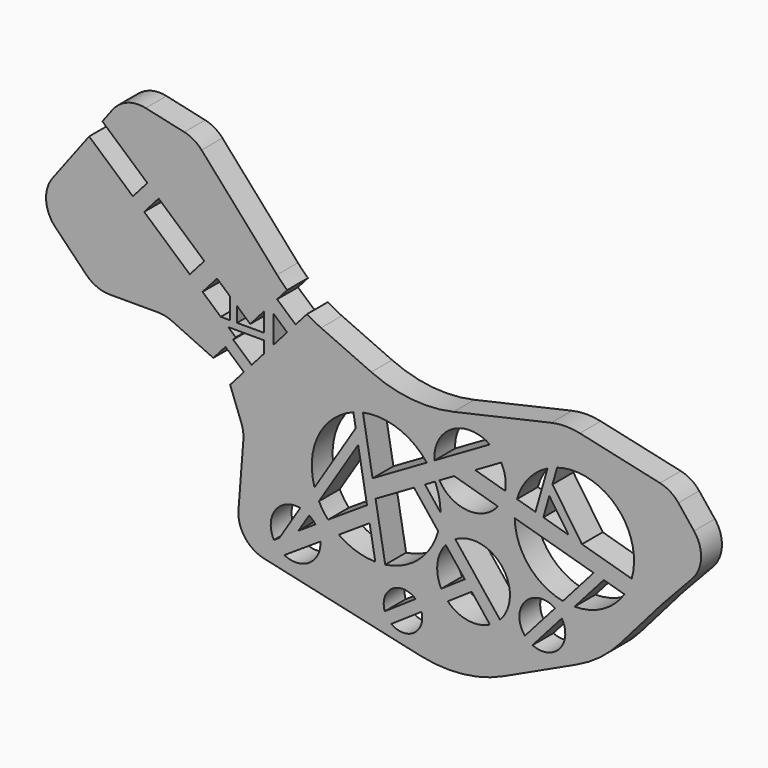
from build123d import *

# Parameters (mm, degrees)
F1_DEPTH = 5.08


with BuildPart() as f1:
    # F0 (on Front) → F1 (new body)
    with BuildSketch(Plane.XZ):
        with BuildLine():
            Line((-40.275556, 44.046157), (-47.404758, 34.581525))
            ThreePointArc((-47.404758, 34.581525), (-48.669842, 30.357517), (-46.879273, 26.328058))
            Line((-46.879273, 26.328058), (-40.821373, 20.114827))
            ThreePointArc((-40.821373, 20.114827), (-38.741891, 18.696625), (-36.274772, 18.197764))
            Line((-36.274772, 18.197764), (-26.811405, 18.197764))
            ThreePointArc((-26.811405, 18.197764), (-25.449181, 18.049928), (-24.150386, 17.613306))
            Line((-24.150386, 17.613306), (-16.054588, 13.876783))
            Line((-16.054588, 13.876783), (-13.685921, 16.563832))
            Line((-13.685921, 16.563832), (-10.083565, 13.38831))
            Line((-10.083565, 13.38831), (-12.769917, 10.340875))
            Line((-12.769917, 10.340875), (-10.570144, 4.47481))
            ThreePointArc((-10.570144, 4.47481), (-10.228729, 3.136696), (-10.184672, 1.756416))
            Line((-10.184672, 1.756416), (-11.142575, -10.651773))
            ThreePointArc((-11.142575, -10.651773), (-9.914032, -14.920187), (-6.188922, -17.339322))
            Line((-6.188922, -17.339322), (3.625042, -19.520204))
            Line((3.625042, -19.520204), (24.356571, -24.127213))
            ThreePointArc((24.356571, -24.127213), (32.617279, -24.582682), (40.58616, -22.359246))
            Line((40.58616, -22.359246), (54.85313, -15.717725))
            ThreePointArc((54.85313, -15.717725), (59.411476, -12.982062), (63.300546, -9.357493))
            Line((63.300546, -9.357493), (71.362269, -0.086524))
            ThreePointArc((71.362269, -0.086524), (71.438277, -0.000693), (71.515821, 0.083752))
            Line((71.515821, 0.083752), (77.39452, 6.370687))
            ThreePointArc((77.39452, 6.370687), (79.101388, 10.457233), (77.721958, 14.66561))
            Line((77.721958, 14.66561), (74.67214, 18.491938))
            ThreePointArc((74.67214, 18.491938), (73.070176, 19.919962), (71.084022, 20.732817))
            Line((71.084022, 20.732817), (55.460665, 24.204676))
            ThreePointArc((55.460665, 24.204676), (52.678779, 24.507072), (49.898197, 24.192908))
            Line((49.898197, 24.192908), (30.802289, 19.864502))
            ThreePointArc((30.802289, 19.864502), (22.647473, 19.363428), (14.755452, 21.477216))
            Line((14.755452, 21.477216), (4.972792, 25.88382))
            ThreePointArc((4.972792, 25.88382), (3.570361, 26.568119), (2.212597, 27.337246))
            Line((2.212597, 27.337246), (0, 24.827245))
            Line((0, 24.827245), (-3.602356, 28.002767))
            Line((-3.602356, 28.002767), (-1.648816, 30.21889))
            ThreePointArc((-1.648816, 30.21889), (-2.65924, 31.186265), (-3.614876, 32.207799))
            Line((-3.614876, 32.207799), (-18.335917, 48.839203))
            ThreePointArc((-18.335917, 48.839203), (-19.867203, 50.101377), (-21.713309, 50.82926))
            Line((-21.713309, 50.82926), (-29.24698, 52.50341))
            ThreePointArc((-29.24698, 52.50341), (-32.821418, 52.262474), (-35.696574, 50.125153))
            Line((-35.696574, 50.125153), (-37.694322, 47.472969))
            Line((-37.694322, 47.472969), (-28.918262, 39.736762))
            Line((-28.918262, 39.736762), (-31.746839, 36.527986))
            Line((-31.746839, 36.527986), (-40.275556, 44.046157))
        make_face()
        with BuildLine():
            ThreePointArc((-4.225081, -13.529201), (-3.944831, -8.312931), (0.905035, -6.372102))
            Line((0.905035, -6.372102), (-3.15545, -12.829451))
            Line((-3.15545, -12.829451), (-4.225081, -13.529201))
        make_face(mode=Mode.SUBTRACT)
        with BuildLine():
            ThreePointArc((4.845113, -10.854332), (2.657107, -15.202162), (-2.203116, -15.465267))
            Line((-2.203116, -15.465267), (4.845113, -10.854332))
        make_face(mode=Mode.SUBTRACT)
        with BuildLine():
            ThreePointArc((2.641534, -7.068762), (3.312281, -7.592883), (3.881143, -8.226128))
            Line((3.881143, -8.226128), (0.53884, -10.412655))
            Line((0.53884, -10.412655), (2.641534, -7.068762))
        make_face(mode=Mode.SUBTRACT)
        with BuildLine():
            Line((8.424729, -8.512556), (14.443013, -4.575408))
            Line((14.443013, -4.575408), (15.546219, -10.843349))
            ThreePointArc((15.546219, -10.843349), (11.807481, -10.221791), (8.424729, -8.512556))
        make_face(mode=Mode.SUBTRACT)
        with BuildLine():
            Line((4.550004, -4.03374), (12.205012, 8.139946))
            Line((12.205012, 8.139946), (13.928658, -1.653066))
            Line((13.928658, -1.653066), (6.326088, -6.62665))
            ThreePointArc((6.326088, -6.62665), (5.356567, -5.386006), (4.550004, -4.03374))
        make_face(mode=Mode.SUBTRACT)
        with BuildLine():
            ThreePointArc((3.698579, -1.929555), (4.451633, 7.252294), (11.270996, 13.446624))
            Line((11.270996, 13.446624), (11.729453, 10.841867))
            Line((11.729453, 10.841867), (3.698579, -1.929555))
        make_face(mode=Mode.SUBTRACT)
        with BuildLine():
            ThreePointArc((24.562505, -16.508693), (23.048976, -20.625797), (18.664287, -20.500059))
            Line((18.664287, -20.500059), (24.562505, -16.508693))
        make_face(mode=Mode.SUBTRACT)
        with BuildLine():
            ThreePointArc((17.396329, -18.748226), (18.839082, -14.40465), (23.407693, -14.680293))
            Line((23.407693, -14.680293), (17.396329, -18.748226))
        make_face(mode=Mode.SUBTRACT)
        with BuildLine():
            ThreePointArc((28.408875, -11.295958), (27.6599, -7.249786), (29.281339, -3.467801))
            Line((29.281339, -3.467801), (33.01283, -8.18043))
            Line((33.01283, -8.18043), (28.408875, -11.295958))
        make_face(mode=Mode.SUBTRACT)
        with BuildLine():
            Line((29.683054, -13.043582), (34.358372, -9.879761))
            Line((34.358372, -9.879761), (37.916162, -14.373018))
            ThreePointArc((37.916162, -14.373018), (33.583819, -15.044666), (29.683054, -13.043582))
        make_face(mode=Mode.SUBTRACT)
        with BuildLine():
            ThreePointArc((44.73614, -14.067125), (44.771689, -8.173226), (50.616499, -7.413293))
            Line((50.616499, -7.413293), (44.73614, -14.067125))
        make_face(mode=Mode.SUBTRACT)
        with BuildLine():
            Line((39.879447, -12.907889), (31.157593, -1.892757))
            ThreePointArc((31.157593, -1.892757), (40.281312, -3.629113), (39.879447, -12.907889))
        make_face(mode=Mode.SUBTRACT)
        with BuildLine():
            ThreePointArc((51.917324, -8.746926), (51.486914, -14.107842), (46.21959, -15.194111))
            Line((46.21959, -15.194111), (51.917324, -8.746926))
        make_face(mode=Mode.SUBTRACT)
        with BuildLine():
            Line((17.489936, -10.717827), (15.603516, 0))
            Line((15.603516, 0), (23.100192, 4.338584))
            Line((23.100192, 4.338584), (27.815175, -1.616132))
            ThreePointArc((27.815175, -1.616132), (24.011433, -7.708531), (17.489936, -10.717827))
        make_face(mode=Mode.SUBTRACT)
        with BuildLine():
            Line((28.262959, 1.762977), (25.24207, 5.578162))
            Line((25.24207, 5.578162), (27.217829, 6.721602))
            ThreePointArc((27.217829, 6.721602), (27.993249, 4.295584), (28.262959, 1.762977))
        make_face(mode=Mode.SUBTRACT)
        with BuildLine():
            ThreePointArc((13.140761, 13.992305), (20.017468, 13.496749), (25.594964, 9.443823))
            Line((25.594964, 9.443823), (15.018651, 3.322948))
            Line((15.018651, 3.322948), (13.140761, 13.992305))
        make_face(mode=Mode.SUBTRACT)
        with BuildLine():
            Line((30.93997, 8.875732), (39.47801, 6.432929))
            ThreePointArc((39.47801, 6.432929), (33.560944, 3.82119), (28.046584, 7.201231))
            Line((28.046584, 7.201231), (30.93997, 8.875732))
        make_face(mode=Mode.SUBTRACT)
        with BuildLine():
            Line((40.888753, 9.564819), (35.028014, 11.241624))
            Line((35.028014, 11.241624), (40.103703, 14.1791))
            ThreePointArc((40.103703, 14.1791), (40.895382, 11.939869), (40.888753, 9.564819))
        make_face(mode=Mode.SUBTRACT)
        with BuildLine():
            Line((46.789589, 7.876541), (43.188322, 8.906893))
            ThreePointArc((43.188322, 8.906893), (45.411398, 13.138456), (49.147954, 16.119453))
            Line((49.147954, 16.119453), (46.789589, 7.876541))
        make_face(mode=Mode.SUBTRACT)
        with BuildLine():
            Line((54.422703, -5.912002), (60.114638, 0.528621))
            Line((60.114638, 0.528621), (64.136762, -0.622142))
            ThreePointArc((64.136762, -0.622142), (59.948363, -4.494914), (54.422703, -5.912002))
        make_face(mode=Mode.SUBTRACT)
        with BuildLine():
            ThreePointArc((52.13659, -5.693258), (45.467392, -1.754529), (42.747289, 5.497562))
            Line((42.747289, 5.497562), (58.135606, 1.094838))
            Line((58.135606, 1.094838), (52.13659, -5.693258))
        make_face(mode=Mode.SUBTRACT)
        Polygon((53.247314, 6.028933), (48.331221, 7.435468), (49.497491, 11.511795), align=None, mode=Mode.SUBTRACT)
        with BuildLine():
            ThreePointArc((51.030518, 16.87), (62.563308, 14.002848), (65.565734, 2.504533))
            Line((65.565734, 2.504533), (55.861395, 5.281023))
            Line((55.861395, 5.281023), (50.117643, 13.679339))
            Line((50.117643, 13.679339), (51.030518, 16.87))
        make_face(mode=Mode.SUBTRACT)
        Polygon((-20.639595, 26.73681), (-29.538747, 34.581525), (-26.71017, 37.790301), (-17.811018, 29.945587), align=None, mode=Mode.SUBTRACT)
        Polygon((-6.20836, 17.784396), (-8.572314, 15.102694), (-12.17467, 18.278216), (-11.680279, 18.83906), (-13.1406, 20.126352), (-6.20836, 20.126352), align=None, mode=Mode.SUBTRACT)
        Polygon((-11.416613, 24.308838), (-8.851702, 22.047837), (-6.20836, 25.04648), (-6.20836, 21.415438), (-11.416613, 21.415438), align=None, mode=Mode.SUBTRACT)
        Polygon((-4.286453, 19.964633), (-4.286453, 25.283757), (-1.647903, 22.957841), align=None, mode=Mode.SUBTRACT)
        Polygon((-14.602957, 21.415438), (-18.15631, 24.547764), (-15.327734, 27.75654), (-12.835704, 25.559785), (-12.835704, 21.415438), align=None, mode=Mode.SUBTRACT)
        with BuildLine():
            Line((37.897688, 16.563832), (27.077917, 10.302059))
            ThreePointArc((27.077917, 10.302059), (30.53882, 16.800609), (37.897688, 16.563832))
        make_face(mode=Mode.SUBTRACT)
    extrude(amount=F1_DEPTH)


solid = f1.part
